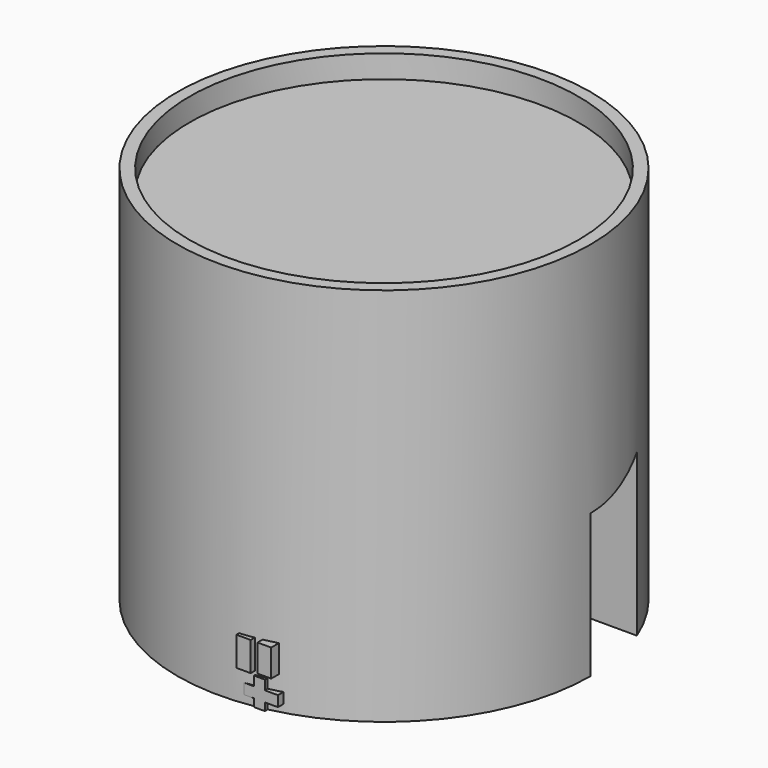
from build123d import *

# Parameters (mm, degrees)
F0_R      = 69.056327
F1_DEPTH  = 127
F2_R      = 82.153068
F3_DEPTH  = 25.4
F4_R      = 64.976359
F5_DEPTH  = 7.62
F6_W      = 3.676821
F6_H      = 9.284234
F7_DEPTH  = 68.58
F8_W      = 11.629656
F8_H      = 3.530432
F9_DEPTH  = 68.58
F10_W     = 4.776465
F10_H     = 9.760607
F11_DEPTH = 69.85
F12_W     = 4.568793
F12_H     = 9.137589
F13_DEPTH = 69.85


with BuildPart() as f1:
    # F0 (on Top) → F1 (new body)
    with BuildSketch(Plane.XY):
        Circle(F0_R)
    extrude(amount=F1_DEPTH)

    # F2 (on Front) → F3 (cut)
    with BuildSketch(Plane.XZ):
        with Locations((2.311195, 0)):
            Circle(F2_R)
    extrude(amount=-F3_DEPTH, mode=Mode.SUBTRACT)

    # F4 (on face) → F5 (cut)
    with BuildSketch(Plane.XY.offset(127)):
        Circle(F4_R)
    extrude(amount=-F5_DEPTH, mode=Mode.SUBTRACT)

    # F6 (on Front) → F7 (join)
    with BuildSketch(Plane.XZ):
        with Locations((13.182353, 4.642117)):
            Rectangle(F6_W, F6_H)
    extrude(amount=F7_DEPTH)

    # F8 (on Front) → F9 (join)
    with BuildSketch(Plane.XZ):
        with Locations((13.602547, 4.361122)):
            Rectangle(F8_W, F8_H)
    extrude(amount=F9_DEPTH)

    # F10 (on Front) → F11 (join)
    with BuildSketch(Plane.XZ):
        with Locations((8.929915, 15.367763)):
            Rectangle(F10_W, F10_H)
    extrude(amount=F11_DEPTH)

    # F12 (on Front) → F13 (join)
    with BuildSketch(Plane.XZ):
        with Locations((15.886945, 15.679271)):
            Rectangle(F12_W, F12_H)
    extrude(amount=F13_DEPTH)


solid = f1.part
